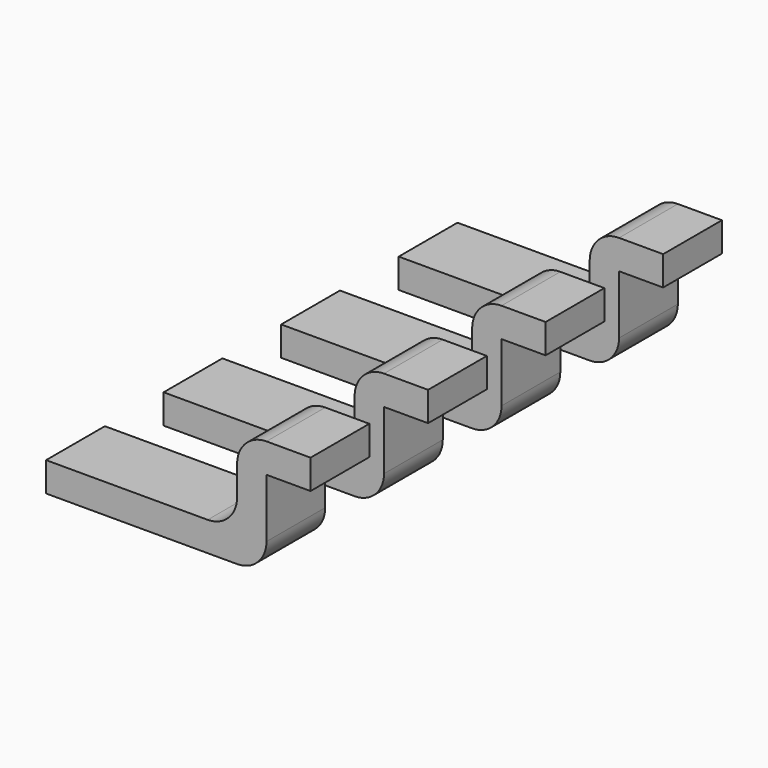
from build123d import *

# Parameters (mm, degrees)
BOX017_W                  = 0.2
BOX017_H                  = 0.5
BOX017_DEPTH              = 0.4
BOX018_W                  = 0.2
BOX018_H                  = 0.5
BOX018_DEPTH              = 0.5
BOX018_PITCH_ANGLE        = 90
BOX016_W                  = 1.5
BOX016_H                  = 0.5
BOX016_DEPTH              = 0.2
FILLET001_R               = 0.2
FILLET001_PLACEMENT_ANGLE = 180
ARRAY002_Y_COUNT          = 4
ARRAY002_Y_PITCH          = 1


with BuildPart() as cubo017:
    # Box017 → Box017 (new body)
    with BuildSketch(Plane(origin=(7.1, 10, -0.6), x_dir=(1, 0, 0), z_dir=(0, 0, 1))):
        with Locations((0.1, 0.25)):
            Rectangle(BOX017_W, BOX017_H)
    extrude(amount=BOX017_DEPTH)


with BuildPart() as cubo018:
    # Box018 → Box018 (new body)
    with BuildSketch(Plane.XY):
        with Locations((0.1, 0.25)):
            Rectangle(BOX018_W, BOX018_H)
    extrude(amount=BOX018_DEPTH)


with BuildPart() as cubo018_1:
    # Box018 pitch: moved
    add(cubo018.part.rotate(Axis((0, 0, 0), (0, 1, 0)), BOX018_PITCH_ANGLE))


with BuildPart() as cubo018_2:
    # Box018 placement: moved
    add(cubo018_1.part.moved(Location((6.8, 10, 0))))


with BuildPart() as array002:
    # Box016 → Box016 (new body)
    with BuildSketch(Plane(origin=(7.1, 10, -0.8), x_dir=(1, 0, 0), z_dir=(0, 0, 1))):
        with Locations((0.75, 0.25)):
            Rectangle(BOX016_W, BOX016_H)
    extrude(amount=BOX016_DEPTH)

    # Fusion005: union Cubo017, Cubo018
    add(cubo017.part)
    add(cubo018_2.part)

    # Fillet001
    fillet001_edges = [array002.edges().sort_by_distance(p)[0] for p in [
        (7.3, 10.25, -0.6),
        (7.1, 10.25, -0.8),
        (7.3, 10.25, 0),
    ]]
    fillet(fillet001_edges, radius=FILLET001_R)


with BuildPart() as array002_1:
    # Fillet001 placement: moved
    add(array002.part.moved(Location((20.2, 20.5, 0))).rotate(Axis((20.2, 20.5, 0), (0, 0, 1)), FILLET001_PLACEMENT_ANGLE))

    # Array002 Y: Array002 ×4


with BuildPart() as array002_2:
    add(array002_1.part)
    with Locations(*[(0, -i * ARRAY002_Y_PITCH, 0) for i in range(1, ARRAY002_Y_COUNT)]):
        add(array002_1.part)


solid = array002_2.part
